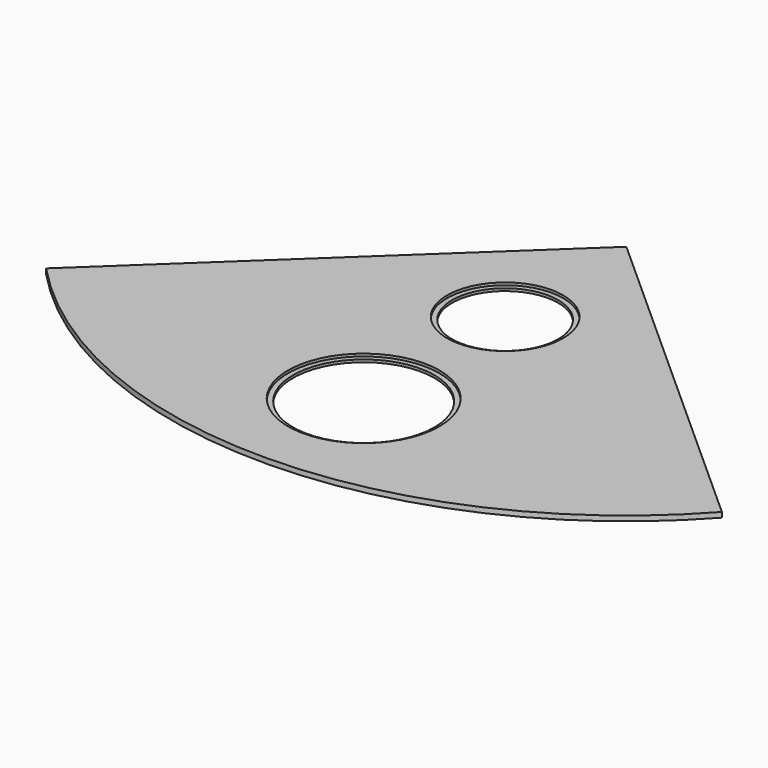
from build123d import *

# Parameters (mm, degrees)
F0_R     = 150
F0_R_2   = 115
F1_DEPTH = 10
F0_R_3   = 140
F0_R_4   = 105
F2_DEPTH = 5


with BuildPart() as f1:
    # F0 (on Top) → F1 (new body)
    with BuildSketch(Plane.XY):
        with BuildLine():
            ThreePointArc((-655.34883, 33.138662), (10.786254, -249.935363), (669.945337, 49.023091))
            Line((669.945337, 49.023091), (0, 650))
            Line((0, 650), (-655.34883, 33.138662))
        make_face()
        Circle(F0_R, mode=Mode.SUBTRACT)
        with Locations((0, 350)):
            Circle(F0_R_2, mode=Mode.SUBTRACT)
    extrude(amount=F1_DEPTH)

    # F0 (on Top) → F2 (join)
    with BuildSketch(Plane.XY):
        Circle(F0_R)
        Circle(F0_R_3, mode=Mode.SUBTRACT)
        with Locations((0, 350)):
            Circle(F0_R_2)
        with Locations((0, 350)):
            Circle(F0_R_4, mode=Mode.SUBTRACT)
    extrude(amount=F2_DEPTH)


solid = f1.part
